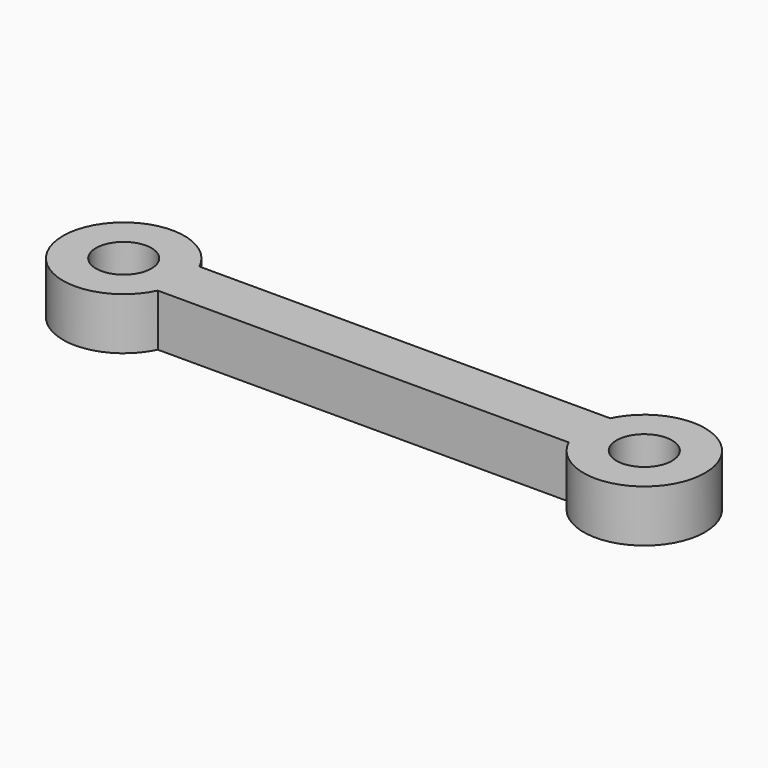
from build123d import *

# Parameters (mm, degrees)
SKETCH_R  = 1.6
PAD_DEPTH = 3


with BuildPart() as part:
    # Sketch → Pad (new body)
    with BuildSketch(Plane.XY):
        with BuildLine():
            ThreePointArc((-11.837722, 1.5), (-18.5, 0), (-11.837722, -1.5))
            Line((11.837722, -1.5), (-11.837722, -1.5))
            ThreePointArc((11.837722, -1.5), (18.5, 0), (11.837722, 1.5))
            Line((-11.837722, 1.5), (11.837722, 1.5))
        make_face()
        with Locations((-15, 0)):
            Circle(SKETCH_R, mode=Mode.SUBTRACT)
        with Locations((15, 0)):
            Circle(SKETCH_R, mode=Mode.SUBTRACT)
    extrude(amount=PAD_DEPTH)


solid = part.part
